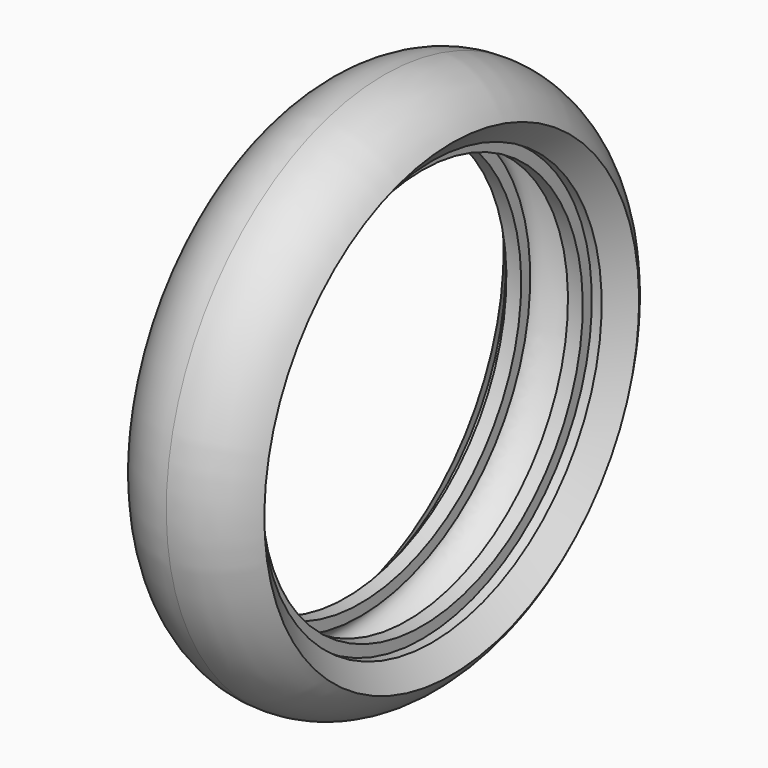
from build123d import *


with BuildPart() as f1:
    # F0 (on Front) → F1 (revolve)
    with BuildSketch(Plane.XZ):
        with BuildLine():
            Line((-7.75, 43.05), (-7.75, 40.75))
            Line((-7.75, 40.75), (-4.75, 40.75))
            Line((-4.75, 40.75), (-4.75, 43.05))
            add(Edge.make_bspline(
                [(-4.75, 43.05), (-7.1072850346, 43.9473241824), (-11.8281015455, 48.0694698568), (-4.8604660942, 52.1290334238), (0, 52.25)],
                knots=[0, 0, 0, 0, 0.4384496288, 1, 1, 1, 1], degree=3))
            add(Edge.make_bspline(
                [(4.75, 43.05), (7.1072850346, 43.9473241824), (11.8281015455, 48.0694698568), (4.8604660942, 52.1290334238), (0, 52.25)],
                knots=[0, 0, 0, 0, 0.4384496288, 1, 1, 1, 1], degree=3))
            Line((4.75, 43.05), (4.75, 40.75))
            Line((4.75, 40.75), (7.75, 40.75))
            Line((7.75, 40.75), (7.75, 43.05))
            Line((7.75, 43.05), (9.75, 43.05))
            Line((9.75, 43.05), (13.75, 47.55))
            ThreePointArc((13.75, 47.55), (7.87960183, 53.1939318394), (0, 55.25))
            ThreePointArc((0, 55.25), (-7.87960183, 53.1939318394), (-13.75, 47.55))
            Line((-13.75, 47.55), (-9.75, 43.05))
            Line((-9.75, 43.05), (-7.75, 43.05))
        make_face()
    revolve(axis=Axis((-4.144737497, 0, 0), (-1, 0, 0)))


solid = f1.part
